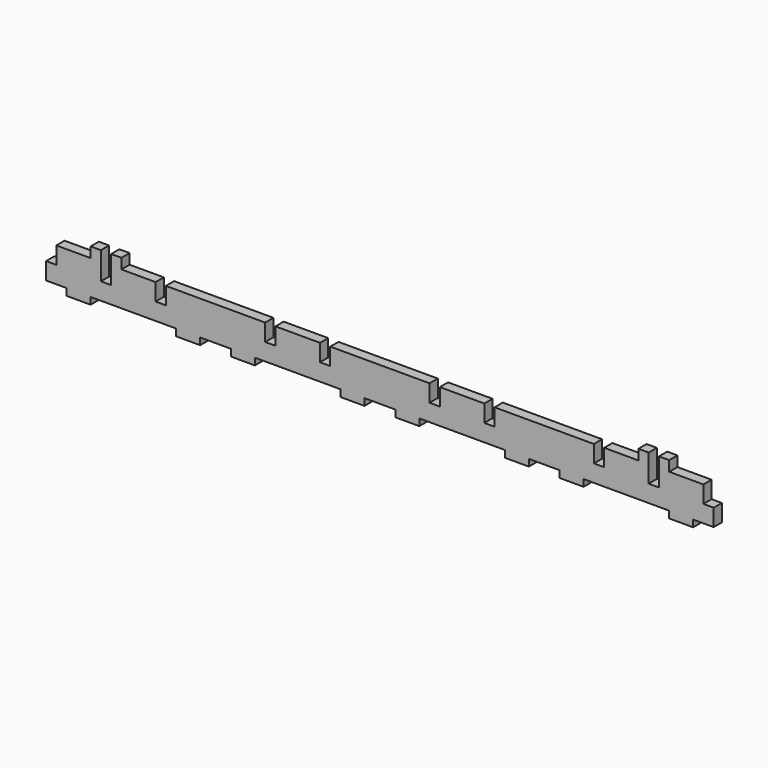
from build123d import *

# Parameters (mm, degrees)
F0_W     = 3
F0_H     = 5
F0_W_2   = 1.5
F0_H_2   = 3
F1_DEPTH = 3


with BuildPart() as f1:
    # F0 (on Front) → F1 (new body)
    with BuildSketch(Plane.XZ):
        Polygon((1.5, 5), (1.5, 0), (4.5, 0), (4.5, -2), (11.5, -2), (11.5, 0), (14.5, 0), (14.5, 5), (14.5, 10), (11.5, 10), (1.5, 10), align=None)
        with Locations((16, 2.5)):
            Rectangle(F0_W, F0_H)
        Polygon((20.5, 10), (17.5, 10), (17.5, 5), (17.5, 0), (30.5, 0), (30.5, 5), (30.5, 10), align=None)
        with Locations((32, 2.5)):
            Rectangle(F0_W, F0_H)
        Polygon((33.5, 5), (33.5, 0), (36.5, 0), (36.5, -2), (43.5, -2), (43.5, 0), (48, 0), (52.5, 0), (52.5, -2), (59.5, -2), (59.5, 0), (62.5, 0), (62.5, 5), (62.5, 10), (33.5, 10), align=None)
        with Locations((64, 2.5)):
            Rectangle(F0_W, F0_H)
        Polygon((78.5, 10), (65.5, 10), (65.5, 5), (65.5, 0), (78.5, 0), (78.5, 5), align=None)
        with Locations((80, 2.5)):
            Rectangle(F0_W, F0_H)
        Polygon((110.5, 10), (81.5, 10), (81.5, 5), (81.5, 0), (84.5, 0), (84.5, -2), (91.5, -2), (91.5, 0), (96, 0), (100.5, 0), (100.5, -2), (107.5, -2), (107.5, 0), (110.5, 0), (110.5, 5), align=None)
        with Locations((112, 2.5)):
            Rectangle(F0_W, F0_H)
        Polygon((126.5, 10), (113.5, 10), (113.5, 5), (113.5, 0), (126.5, 0), (126.5, 5), align=None)
        with Locations((128, 2.5)):
            Rectangle(F0_W, F0_H)
        Polygon((158.5, 10), (129.5, 10), (129.5, 5), (129.5, 0), (132.5, 0), (132.5, -2), (139.5, -2), (139.5, 0), (144, 0), (148.5, 0), (148.5, -2), (155.5, -2), (155.5, 0), (158.5, 0), (158.5, 5), align=None)
        with Locations((160, 2.5)):
            Rectangle(F0_W, F0_H)
        Polygon((171.5, 10), (161.5, 10), (161.5, 5), (161.5, 0), (174.5, 0), (174.5, 5), (174.5, 10), align=None)
        with Locations((176, 2.5)):
            Rectangle(F0_W, F0_H)
        Polygon((180.5, 10), (177.5, 10), (177.5, 5), (177.5, 0), (180.5, 0), (180.5, -2), (187.5, -2), (187.5, 0), (190.5, 0), (190.5, 5), (190.5, 10), align=None)
        with Locations((0.75, 2.5)):
            Rectangle(F0_W_2, F0_H)
        with Locations((191.25, 2.5)):
            Rectangle(F0_W_2, F0_H)
        with Locations((192.75, 2.5)):
            Rectangle(F0_W_2, F0_H)
        with Locations((-0.75, 2.5)):
            Rectangle(F0_W_2, F0_H)
        with Locations((173, 11.5)):
            Rectangle(F0_W, F0_H_2)
        with Locations((179, 11.5)):
            Rectangle(F0_W, F0_H_2)
        with Locations((19, 11.5)):
            Rectangle(F0_W, F0_H_2)
        with Locations((13, 11.5)):
            Rectangle(F0_W, F0_H_2)
    extrude(amount=F1_DEPTH)


solid = f1.part
